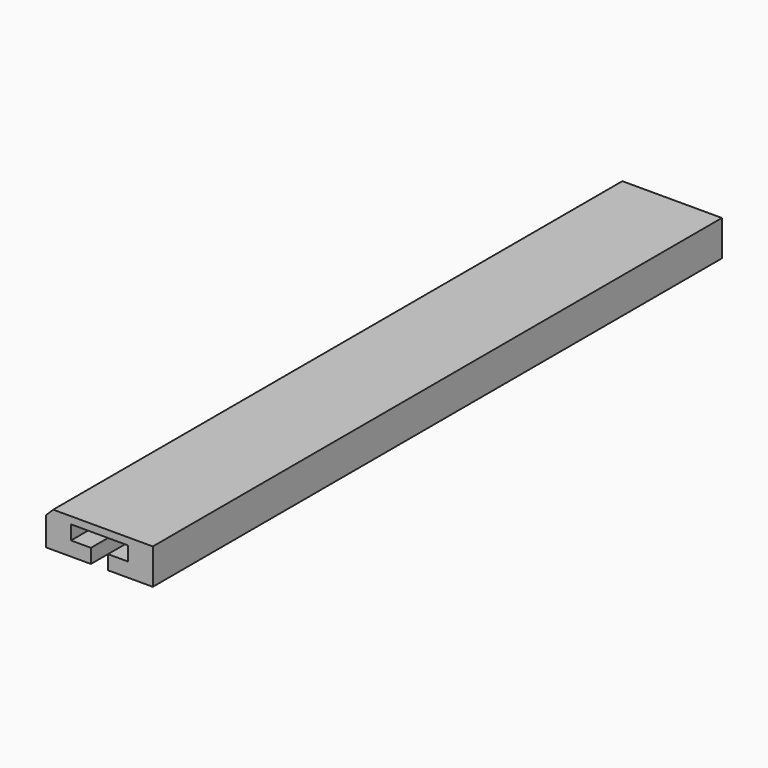
from build123d import *

# Parameters (mm, degrees)
F0_W     = 15
F0_H     = 5
F1_DEPTH = 100
F2_W     = 1.2
F2_H     = 2
F3_DEPTH = 113.7
F4_R     = 0.5
F5_DEPTH = 2.87
F6_SIZE  = 1


with BuildPart() as f1:
    # F0 (on Front) → F1 (new body)
    with BuildSketch(Plane.XZ):
        with Locations((0, 2.5)):
            Rectangle(F0_W, F0_H)
    extrude(amount=F1_DEPTH)

    # F2 (on face) → F3 (cut)
    with BuildSketch(Plane(origin=(0, 0, 0), x_dir=(-1, 0, 0), z_dir=(0, 1, 0))):
        Polygon((-4, 2), (-1.2, 2), (0, 2), (0, 4), (-4, 4), align=None)
        with Locations((-0.6, 1)):
            Rectangle(F2_W, F2_H)
        with Locations((0.6, 1)):
            Rectangle(F2_W, F2_H)
        Polygon((0, 4), (0, 2), (1.2, 2), (4, 2), (4, 4), align=None)
    extrude(amount=-F3_DEPTH, mode=Mode.SUBTRACT)

    # F4 (on face) → F5 (join)
    with BuildSketch(Plane.XY.offset(2)):
        with Locations((-2.2, -8.50577)):
            Circle(F4_R)
        with Locations((-2.2, -50)):
            Circle(F4_R)
        with Locations((-2.2, -90.948157)):
            Circle(F4_R)
        with Locations((2.2, -90.948157)):
            Circle(F4_R)
        with Locations((2.2, -50)):
            Circle(F4_R)
        with Locations((2.2, -8.50577)):
            Circle(F4_R)
    extrude(amount=F5_DEPTH)

    # F6
    f6_edges = [f1.edges().sort_by_distance(p)[0] for p in [
        (-7.5, -50, 5),
    ]]
    chamfer(f6_edges, length=F6_SIZE)


solid = f1.part
